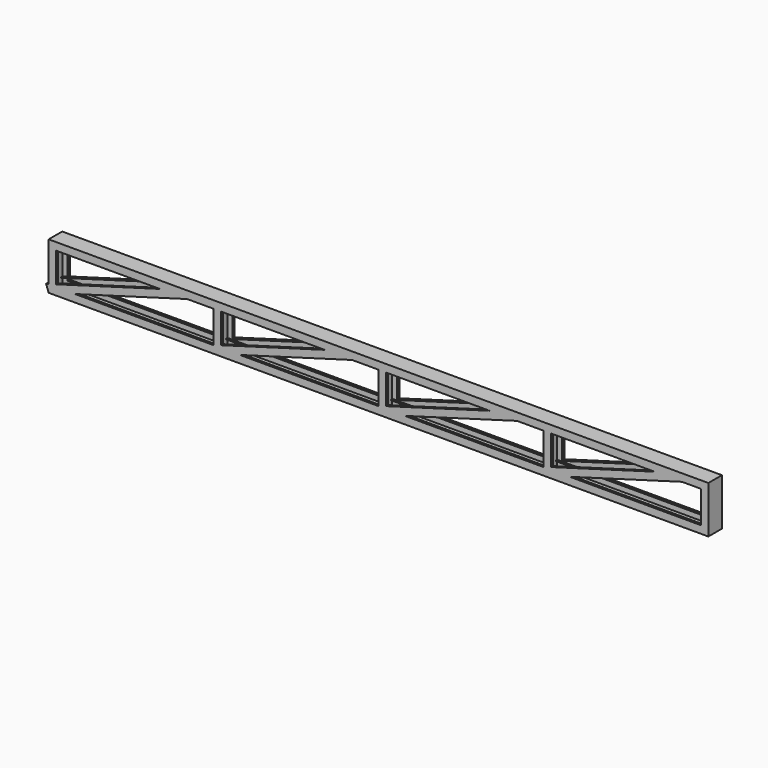
from build123d import *

# Parameters (mm, degrees)
F5_W     = 7
F5_H     = 3
F7_W     = 93.1356009841
F7_H     = 56.7761361599
F8_DEPTH = 3513.681805733


with BuildPart() as f2:
    # F2: sweep along a path in F0
    with BuildLine(Plane.XZ) as f2_path:
        Line((0, 250), (3500, 250))
        Line((3500, 250), (3500, 0))
        Line((3500, 0), (0, 0))
        Line((0, 0), (0, 250))
    # F1 (on Top) → F2 (sweep)
    with BuildSketch(Plane.XY):
        Polygon((0, 45), (0, 0), (0, -45), (40, -45), (40, -33), (37, -33), (37, -42), (3, -42), (3, 0), (3, 42), (37, 42), (37, 33), (40, 33), (40, 45), align=None)
    sweep(path=f2_path.line, transition=Transition.RIGHT)

    # F6: sweep along a path in F3
    with BuildLine(Plane.XZ) as f6_path:
        Line((0, 0), (875, 250))
        Line((875, 250), (875, 0))
        Line((875, 0), (1750, 250))
        Line((1750, 250), (1750, 0))
        Line((1750, 0), (2625, 250))
        Line((2625, 250), (2625, 0))
        Line((2625, 0), (3500, 250))
    # F5 (on face) → F6 (sweep)
    with BuildSketch(Plane(origin=(0, 0, 0), x_dir=(0, 1, 0), z_dir=(0.9396926208, 0, 0.3420201433))):
        Polygon((-45, 0), (0, 0), (45, 0), (45, 40), (40, 40), (40, 37), (42, 37), (42, 3), (0, 3), (-42, 3), (-42, 37), (-40, 37), (-40, 40), (-45, 40), align=None)
        with Locations((-36.5, 38.5)):
            Rectangle(F5_W, F5_H)
        with Locations((36.5, 38.5)):
            Rectangle(F5_W, F5_H)
    sweep(path=f6_path.line, transition=Transition.RIGHT)

    # F7 (on face) → F8 (cut, through all)
    with BuildSketch(Plane.YZ.offset(3500)):
        with Locations((1.567800492, 278.3880680799)):
            Rectangle(F7_W, F7_H)
    extrude(amount=-F8_DEPTH, mode=Mode.SUBTRACT)


solid = f2.part
